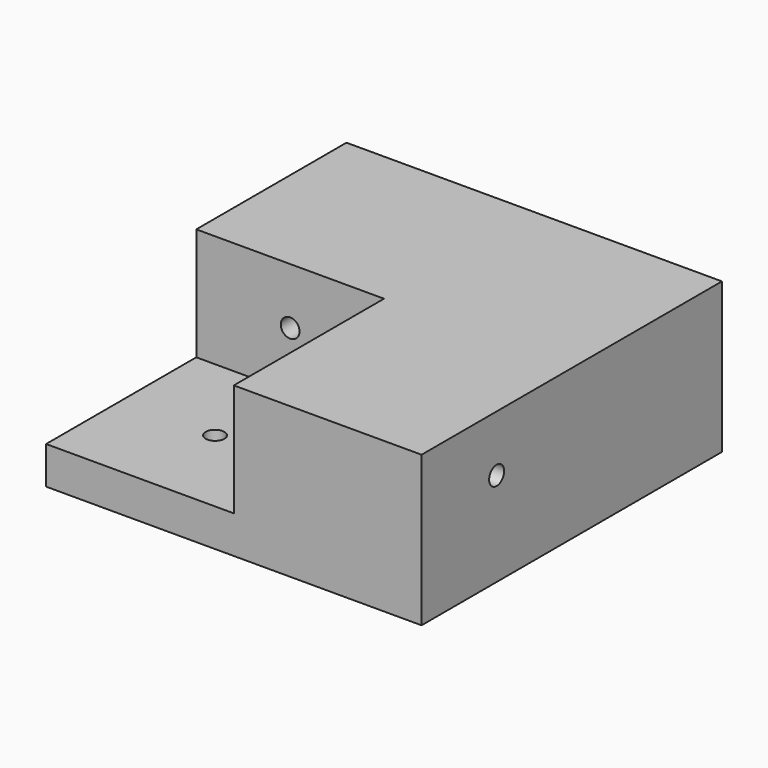
from build123d import *

# Parameters (mm, degrees)
F0_W     = 63.5
F0_H     = 63.5
F1_DEPTH = 25.4
F2_W     = 31.75
F2_H     = 31.75
F3_DEPTH = 19.05
F4_R     = 1.5875
F5_DEPTH = 6.35
F6_R     = 1.5875
F7_DEPTH = 38.1
F8_R     = 1.5875
F9_DEPTH = 38.1


with BuildPart() as f1:
    # F0 (on Top) → F1 (new body)
    with BuildSketch(Plane.XY):
        Rectangle(F0_W, F0_H)
    extrude(amount=F1_DEPTH)

    # F2 (on face) → F3 (cut)
    with BuildSketch(Plane.XY.offset(25.4)):
        with Locations((-15.875, -15.875)):
            Rectangle(F2_W, F2_H)
        with Locations((-15.875, -15.875)):
            Rectangle(F2_W, F2_H)
    extrude(amount=-F3_DEPTH, mode=Mode.SUBTRACT)

    # F4 (on face) → F5 (cut)
    with BuildSketch(Plane.XY.offset(6.35)):
        with Locations((-15.875, -15.875)):
            Circle(F4_R)
    extrude(amount=-F5_DEPTH, mode=Mode.SUBTRACT)

    # F6 (on face) → F7 (cut)
    with BuildSketch(Plane(origin=(0, 0, 0), x_dir=(0, -1, 0), z_dir=(-1, 0, 0))):
        with Locations((15.875, 15.875)):
            Circle(F6_R)
    extrude(amount=-F7_DEPTH, mode=Mode.SUBTRACT)

    # F8 (on face) → F9 (cut)
    with BuildSketch(Plane.XZ):
        with Locations((-15.875, 15.875576)):
            Circle(F8_R)
    extrude(amount=-F9_DEPTH, mode=Mode.SUBTRACT)


solid = f1.part
